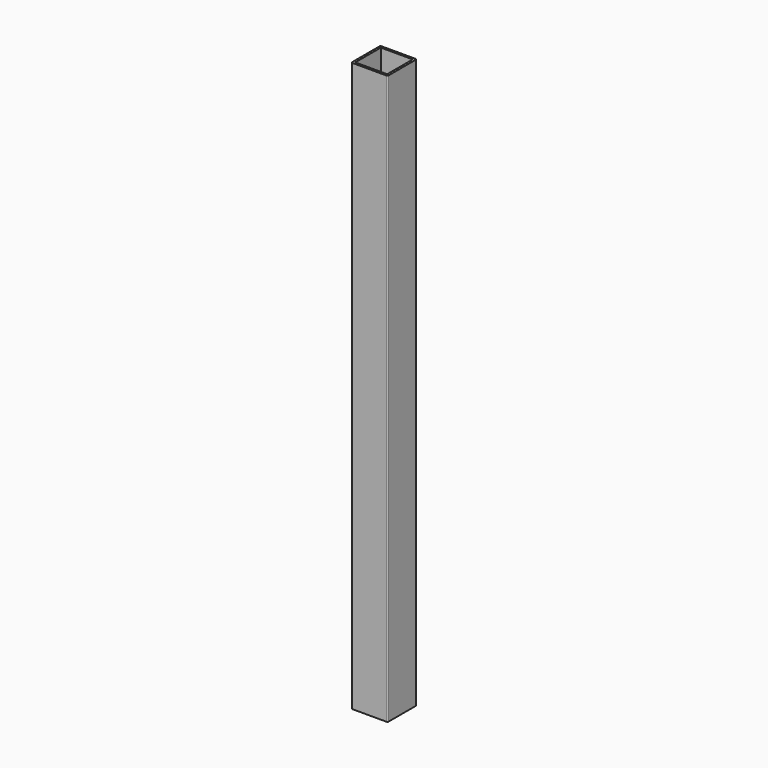
from build123d import *

# Parameters (mm, degrees)
SKETCH_W   = 25
SKETCH_H   = 25
SKETCH_W_2 = 22
SKETCH_H_2 = 22
PAD_DEPTH  = 392
FILLET_R   = 0.74


with BuildPart() as part:
    # Sketch → Pad (new body)
    with BuildSketch(Plane.XY):
        with Locations((12.5, 12.5)):
            Rectangle(SKETCH_W, SKETCH_H)
        with Locations((12.5, 12.5)):
            Rectangle(SKETCH_W_2, SKETCH_H_2, mode=Mode.SUBTRACT)
    extrude(amount=PAD_DEPTH)

    # Fillet
    fillet_edges = [part.edges().sort_by_distance(p)[0] for p in [
        (25, 0, 196),
        (0, 0, 196),
        (25, 25, 196),
        (0, 25, 196),
    ]]
    fillet(fillet_edges, radius=FILLET_R)


solid = part.part
